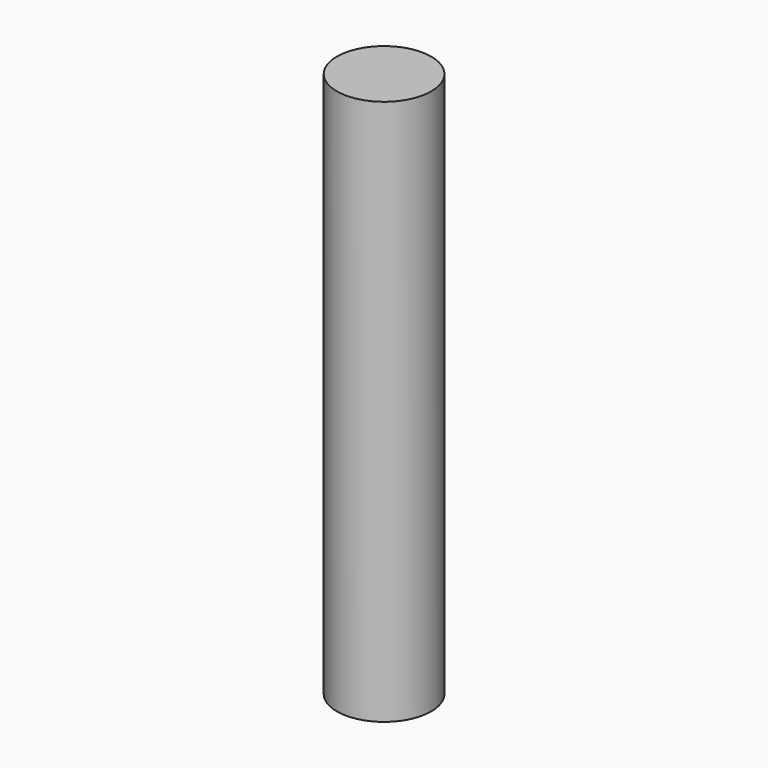
from build123d import *

# Parameters (mm, degrees)
CYLINDER_R     = 1.2954
CYLINDER_DEPTH = 15


with BuildPart() as part:
    # Cylinder → Cylinder (new body)
    with BuildSketch(Plane.XY.offset(-2.5)):
        Circle(CYLINDER_R)
    extrude(amount=CYLINDER_DEPTH)


solid = part.part
